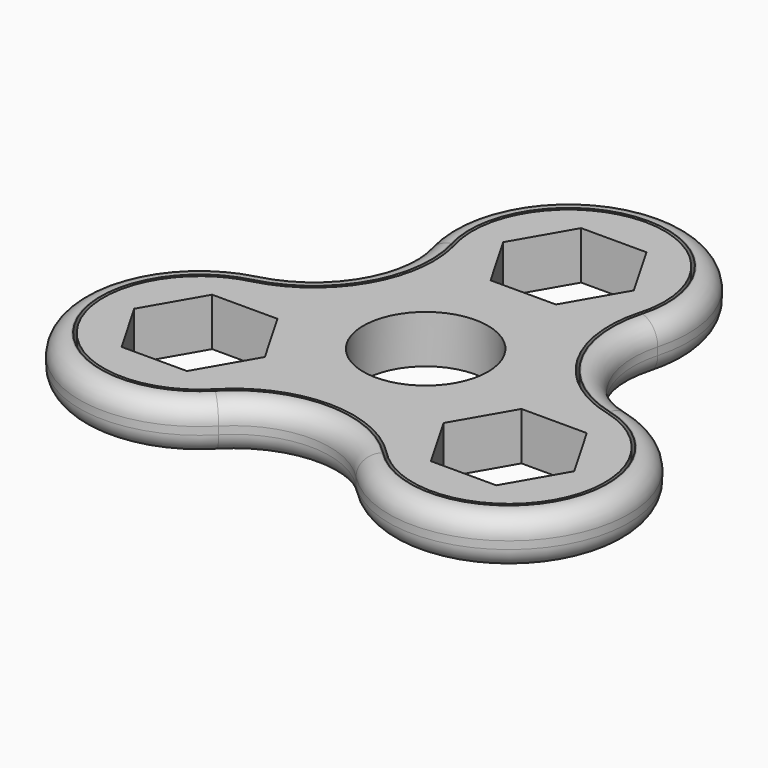
from build123d import *

# Parameters (mm, degrees)
F0_R     = 6.5
F1_DEPTH = 5
F2_DEPTH = 5
F3_COUNT = 3
F5_DEPTH = 5
F6_R     = 2.1


with BuildPart() as f1:
    # F0 (on Top) → F1 (new body)
    with BuildSketch(Plane.XY):
        with BuildLine():
            ThreePointArc((-2.67e-08, 8.623724357), (-4.1144438872, 9.5093756968), (-7.5000952085, 12.0094540372))
            Line((-7.5000952085, 12.0094540372), (-10.8253174881, 6.2500001026))
            Line((-10.8253174881, 6.2500001026), (-14.4337567297, 0))
            Line((-14.4337567297, 0), (-7.2168783649, -12.5))
            Line((-7.2168783649, -12.5), (7.2168783649, -12.5))
            Line((7.2168783649, -12.5), (14.4337567297, 0))
            Line((14.4337567297, 0), (10.8253175028, 6.2500000771))
            Line((10.8253175028, 6.2500000771), (7.5000952085, 12.0094540372))
            ThreePointArc((7.5000952085, 12.0094540372), (4.1144438629, 9.5093756858), (-2.67e-08, 8.623724357))
        make_face()
        Circle(F0_R, mode=Mode.SUBTRACT)
        with BuildLine():
            Line((7.2168783649, 12.5), (-7.2168783649, 12.5))
            Line((-7.2168783649, 12.5), (-7.5000952085, 12.0094540372))
            ThreePointArc((-7.5000952085, 12.0094540372), (-4.1144438872, 9.5093756968), (-2.67e-08, 8.623724357))
            ThreePointArc((-2.67e-08, 8.623724357), (4.1144438629, 9.5093756858), (7.5000952085, 12.0094540372))
            Line((7.5000952085, 12.0094540372), (7.2168783649, 12.5))
        make_face()
    extrude(amount=F1_DEPTH)



with BuildPart() as f2:
    # F0 (on Top) → F2 (new body)
    with BuildSketch(Plane.XY):
        with BuildLine():
            Line((-7.5000952085, 12.0094540372), (-7.2168783649, 12.5))
            Line((-7.2168783649, 12.5), (7.2168783649, 12.5))
            Line((7.2168783649, 12.5), (7.5000952085, 12.0094540372))
            ThreePointArc((7.5000952085, 12.0094540372), (8.7797476394, 13.8366551712), (9.6225045221, 15.9020692131))
            ThreePointArc((9.6225045221, 15.9020692131), (9.9051765563, 17.2498694194), (10, 18.623724357))
            ThreePointArc((10, 18.623724357), (7.0710678119, 25.6947921688), (0, 28.623724357))
            ThreePointArc((0, 28.623724357), (-7.9754796545, 24.656279726), (-9.6225045221, 15.9020692131))
            ThreePointArc((-9.6225045221, 15.9020692131), (-8.7797476394, 13.8366551712), (-7.5000952085, 12.0094540372))
        make_face()
        Polygon((-6.8127331764, 18.623724357), (-3.4063665882, 24.523724357), (3.4063665882, 24.523724357), (6.8127331764, 18.623724357), (3.4063665882, 12.723724357), (-3.4063665882, 12.723724357), align=None, mode=Mode.SUBTRACT)
        with BuildLine():
            Line((7.2168783649, 12.5), (-7.2168783649, 12.5))
            Line((-7.2168783649, 12.5), (-7.5000952085, 12.0094540372))
            ThreePointArc((-7.5000952085, 12.0094540372), (-4.1144438872, 9.5093756968), (-2.67e-08, 8.623724357))
            ThreePointArc((-2.67e-08, 8.623724357), (4.1144438629, 9.5093756858), (7.5000952085, 12.0094540372))
            Line((7.5000952085, 12.0094540372), (7.2168783649, 12.5))
        make_face()
        with BuildLine():
            Line((-10.8253174881, 6.2500001026), (-7.5000952085, 12.0094540372))
            ThreePointArc((-7.5000952085, 12.0094540372), (-8.7797476394, 13.8366551712), (-9.6225045221, 15.9020692131))
            ThreePointArc((-9.6225045221, 15.9020692131), (-9.2691644195, 14.2173188178), (-9.1506350946, 12.5))
            ThreePointArc((-9.1506350946, 12.5), (-9.5765622507, 9.2647619935), (-10.8253174881, 6.2500001026))
        make_face()
        with BuildLine():
            ThreePointArc((9.6225045221, 15.9020692131), (8.7797476394, 13.8366551712), (7.5000952085, 12.0094540372))
            Line((7.5000952085, 12.0094540372), (10.8253175028, 6.2500000771))
            ThreePointArc((10.8253175028, 6.2500000771), (9.24657798, 10.9542422252), (9.6225045221, 15.9020692131))
        make_face()
    extrude(amount=F2_DEPTH)


with BuildPart() as f1_1:
    add(f1.part)

    add(f2.part)  # F3 merges F2
    # F3: F2 ×3 about axis
    f3_axis = Axis((0, 0, 0), (0, 0, 1))
    for i in range(1, F3_COUNT):
        add(f2.part.rotate(f3_axis, i * 360 / F3_COUNT))


with BuildPart() as f5:
    # F4 (on face) → F5 (new body)
    with BuildSketch(Plane.XY.offset(5)):
        with BuildLine():
            ThreePointArc((-7.1682748472, -18.0274943015), (0, -15), (7.1682748472, -18.0274943015))
            ThreePointArc((7.1682748472, -18.0274943015), (26.9539359535, -15.5618621785), (19.1964054553, 2.8058390318))
            ThreePointArc((19.1964054553, 2.8058390318), (12.9903810568, 7.5), (12.0281306081, 15.2216552698))
            ThreePointArc((12.0281306081, 15.2216552698), (0, 31.123724357), (-12.0281306081, 15.2216552698))
            ThreePointArc((-12.0281306081, 15.2216552698), (-12.9903810568, 7.5), (-19.1964054553, 2.8058390318))
            ThreePointArc((-19.1964054553, 2.8058390318), (-26.9539359535, -15.5618621785), (-7.1682748472, -18.0274943015))
        make_face()
        with BuildLine():
            ThreePointArc((18.6564749347, 0.6731236188), (25.0486800652, -14.4618621785), (8.7452953136, -16.4935430479))
            ThreePointArc((8.7452953136, -16.4935430479), (0, -12.8), (-8.7452953136, -16.4935430479))
            ThreePointArc((-8.7452953136, -16.4935430479), (-25.0486800652, -14.4618621785), (-18.6564749347, 0.6731236188))
            ThreePointArc((-18.6564749347, 0.6731236188), (-11.0851251684, 6.4), (-9.9111796211, 15.8204194291))
            ThreePointArc((-9.9111796211, 15.8204194291), (0, 28.923724357), (9.9111796211, 15.8204194291))
            ThreePointArc((9.9111796211, 15.8204194291), (11.0851251684, 6.4), (18.6564749347, 0.6731236188))
        make_face(mode=Mode.SUBTRACT)
    extrude(amount=-F5_DEPTH)

    # F6
    f6_edges = [f5.edges().sort_by_distance(p)[0] for p in [
        (-26.953936, -15.561862, 5),
        (-26.953936, -15.561862, 0),
    ]]
    fillet(f6_edges, radius=F6_R)


solid = Compound([f1_1.part, f5.part])
